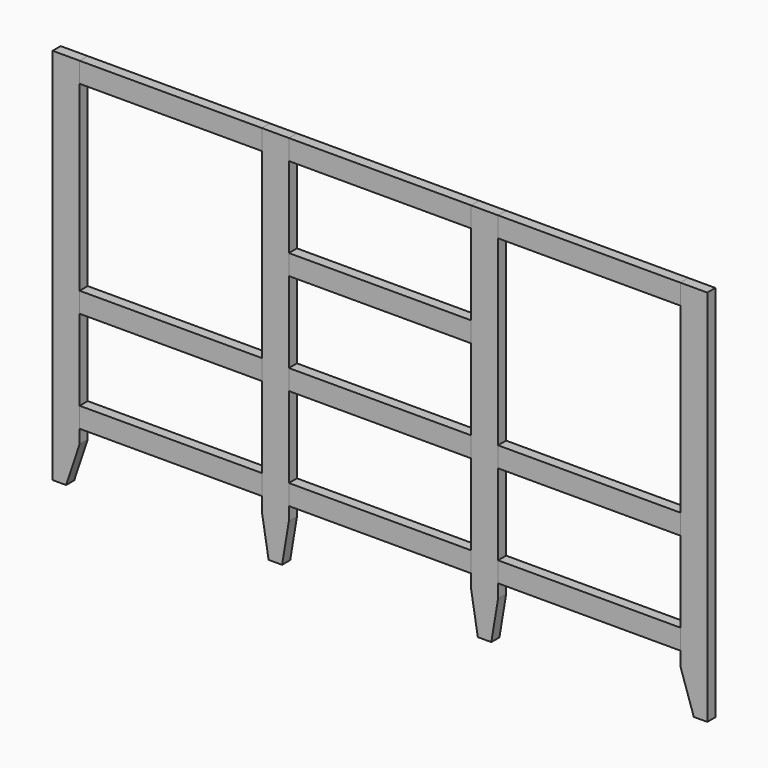
from build123d import *

# Parameters (mm, degrees)
F1_DEPTH = 19.05
F0_W     = 342.9
F0_H     = 38.1
F2_DEPTH = 19.05


with BuildPart() as f1:
    # F0 (on Front) → F1 (new body)
    with BuildSketch(Plane.XZ):
        Polygon((-565.15, 293.953022), (-565.15, 332.053022), (-615.95, 332.053022), (-615.95, -379.146978), (-590.55, -379.146978), (-565.15, -302.946978), (-565.15, -277.546978), (-565.15, -239.446978), (-565.15, -87.046978), (-565.15, -48.946978), align=None)
        Polygon((-171.45, 332.053022), (-222.25, 332.053022), (-222.25, 293.953022), (-222.25, -48.946978), (-222.25, -87.046978), (-222.25, -239.446978), (-222.25, -277.546978), (-222.25, -302.946978), (-209.549204, -379.146978), (-184.15, -379.146978), (-171.45, -302.946978), (-171.45, -277.546978), (-171.45, -239.446978), (-171.45, -87.046978), (-171.45, -48.946978), (-171.45, 103.453022), (-171.45, 141.553022), (-171.45, 293.953022), align=None)
        Polygon((222.25, 332.053022), (171.45, 332.053022), (171.45, 293.953022), (171.45, 141.553022), (171.45, 103.453022), (171.45, -48.946978), (171.45, -87.046978), (171.45, -239.446978), (171.45, -277.546978), (171.45, -302.946978), (184.15, -379.146978), (196.85, -379.146978), (209.55, -379.146978), (222.25, -302.946978), (222.25, -277.546978), (222.25, -239.446978), (222.25, -87.046978), (222.25, -48.946978), (222.25, 293.953022), align=None)
        Polygon((615.95, 332.053022), (565.15, 332.053022), (565.15, 293.953022), (565.15, -48.946978), (565.15, -87.046978), (565.15, -239.446978), (565.15, -277.546978), (565.15, -302.946978), (590.55, -379.146978), (615.95, -379.146978), align=None)
    extrude(amount=F1_DEPTH)


with BuildPart() as f2:
    # F0 (on Front) → F2 (new body)
    with BuildSketch(Plane.XZ):
        with Locations((-393.7, 313.003022)):
            Rectangle(F0_W, F0_H)
        with Locations((-393.7, -67.996978)):
            Rectangle(F0_W, F0_H)
        with Locations((-393.7, -258.496978)):
            Rectangle(F0_W, F0_H)
        with Locations((0, 313.003022)):
            Rectangle(F0_W, F0_H)
        with Locations((0, 122.503022)):
            Rectangle(F0_W, F0_H)
        with Locations((0, -67.996978)):
            Rectangle(F0_W, F0_H)
        with Locations((0, -258.496978)):
            Rectangle(F0_W, F0_H)
        with Locations((393.7, -258.496978)):
            Rectangle(F0_W, F0_H)
        with Locations((393.7, -67.996978)):
            Rectangle(F0_W, F0_H)
        with Locations((393.7, 313.003022)):
            Rectangle(F0_W, F0_H)
    extrude(amount=F2_DEPTH)


solid = Compound([f1.part, f2.part])
